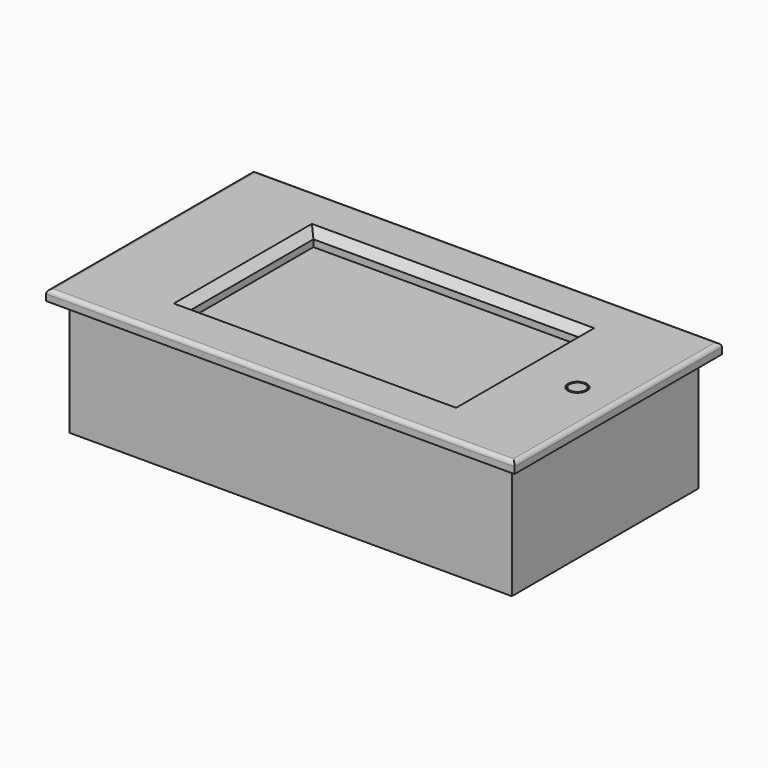
from build123d import *

# Parameters (mm, degrees)
SKETCH_W        = 84.6
SKETCH_H        = 44.6
PAD_DEPTH       = 22.4
SKETCH001_W     = 89.6
SKETCH001_H     = 49.6
PAD001_DEPTH    = 2
FILLET_R        = 0.8
SKETCH002_W     = 51
SKETCH002_H     = 30
POCKET_DEPTH    = 2.82
CHAMFER_SIZE    = 1.5
SKETCH003_R     = 1.81
POCKET001_DEPTH = 3
SKETCH006_W     = 9
SKETCH006_H     = 26
POCKET002_DEPTH = 10
SKETCH007_R     = 1.51
PAD002_DEPTH    = 3


with BuildPart() as part:
    # Sketch → Pad (new body)
    with BuildSketch(Plane.XY):
        Rectangle(SKETCH_W, SKETCH_H)
    extrude(amount=-PAD_DEPTH)

    # Sketch001 → Pad001 (join)
    with BuildSketch(Plane.XY):
        Rectangle(SKETCH001_W, SKETCH001_H)
    extrude(amount=PAD001_DEPTH)

    # Fillet
    fillet_edges = [part.edges().sort_by_distance(p)[0] for p in [
        (0, -24.8, 2),
        (44.8, 0, 2),
        (0, 24.8, 2),
        (-44.8, 0, 2),
    ]]
    fillet(fillet_edges, radius=FILLET_R)

    # Sketch002 (on Face8 of Fillet) → Pocket (cut)
    with BuildSketch(Plane.XY.offset(2)):
        Rectangle(SKETCH002_W, SKETCH002_H)
    extrude(amount=-POCKET_DEPTH, mode=Mode.SUBTRACT)

    # Chamfer
    chamfer_edges = [part.edges().sort_by_distance(p)[0] for p in [
        (-25.5, 0, 2),
        (0, 15, 2),
        (0, -15, 2),
        (25.5, 0, 2),
    ]]
    chamfer(chamfer_edges, length=CHAMFER_SIZE)

    # Sketch003 (on Face1 of Chamfer) → Pocket001 (cut)
    with BuildSketch(Plane.XY.offset(2)):
        with Locations((37, 0)):
            Circle(SKETCH003_R)
    extrude(amount=-POCKET001_DEPTH, mode=Mode.SUBTRACT)

    # Sketch006 (on DatumPlane) → Pocket002 (cut)
    with BuildSketch(Plane.XY.offset(-22.4)):
        with Locations((-37.8, 0)):
            Rectangle(SKETCH006_W, SKETCH006_H)
    extrude(amount=POCKET002_DEPTH, mode=Mode.SUBTRACT)

    # Sketch007 (on DatumPlane) → Pad002 (join)
    with BuildSketch(Plane.XY.offset(-1)):
        with Locations((37, 0)):
            Circle(SKETCH007_R)
    extrude(amount=PAD002_DEPTH)


solid = part.part
